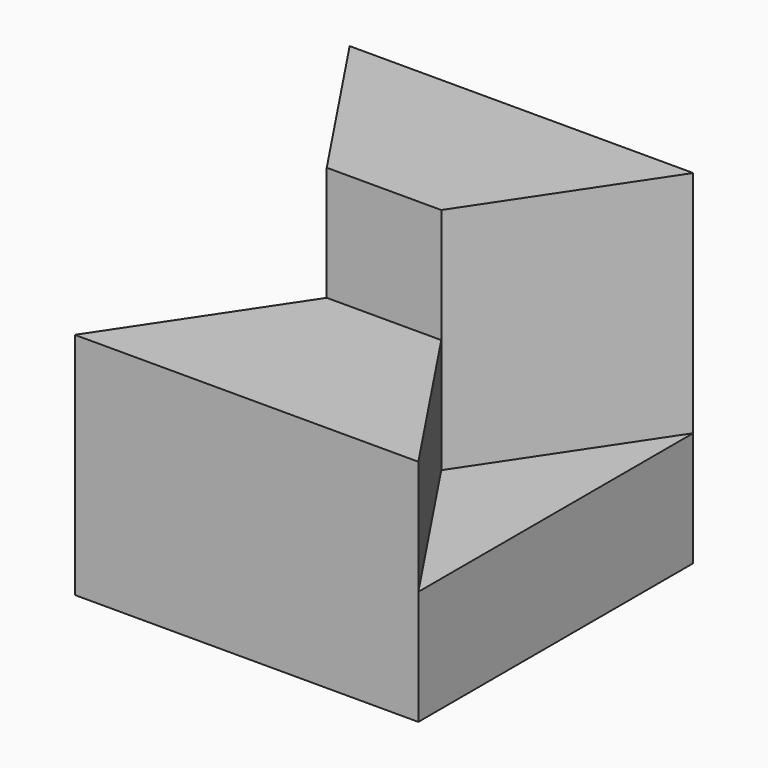
from build123d import *

# Parameters (mm, degrees)
F1_DEPTH = 30
F2_DEPTH = 10
F3_DEPTH = 20


with BuildPart() as f1:
    # F0 (on Top) → F1 (new body)
    with BuildSketch(Plane.XY):
        Polygon((10, 15), (0, 0), (30, 0), (20, 15), align=None)
        Polygon((0, 30), (0, 0), (10, 15), align=None)
        Polygon((20, 15), (30, 0), (30, 30), align=None)
        Polygon((30, 30), (0, 30), (10, 15), (20, 15), align=None)
    extrude(amount=-F1_DEPTH)

    # F0 (on Top) → F2 (cut)
    with BuildSketch(Plane.XY):
        Polygon((10, 15), (0, 0), (30, 0), (20, 15), align=None)
    extrude(amount=-F2_DEPTH, mode=Mode.SUBTRACT)

    # F0 (on Top) → F3 (cut)
    with BuildSketch(Plane.XY):
        Polygon((0, 30), (0, 0), (10, 15), align=None)
        Polygon((20, 15), (30, 0), (30, 30), align=None)
    extrude(amount=-F3_DEPTH, mode=Mode.SUBTRACT)


solid = f1.part
